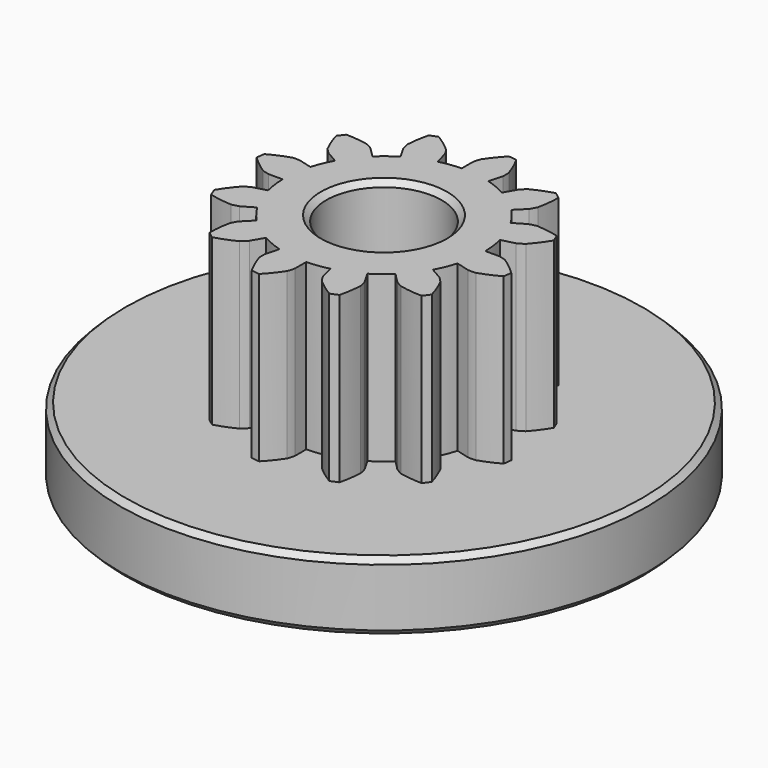
from build123d import *

# Parameters (mm, degrees)
F0_R     = 9.6
F0_R_2   = 2.1
F1_DEPTH = 2.5
F3_DEPTH = 6
F4_R     = 2.1
F5_DEPTH = 6
F6_SIZE  = 0.3
F7_SIZE  = 0.2
F8_SIZE  = 0.2


with BuildPart() as f1:
    # F0 (on Top) → F1 (new body)
    with BuildSketch(Plane.XY):
        Circle(F0_R)
        Circle(F0_R_2, mode=Mode.SUBTRACT)
    extrude(amount=-F1_DEPTH)

    # F2 (on face) → F3 (join)
    with BuildSketch(Plane(origin=(0, 0, -2.5), x_dir=(1, 0, 0), z_dir=(0, 0, -1))):
        with BuildLine():
            Line((-3.889087, -3.889087), (-6.010408, -6.010408))
            ThreePointArc((-6.010408, -6.010408), (-3.252809, -7.852976), (0, -8.5))
            Line((0, -8.5), (0, -5.5))
            ThreePointArc((0, -5.5), (-2.104759, -5.081337), (-3.889087, -3.889087))
        make_face()
    extrude(amount=F3_DEPTH)

    # F4 (on face) → F5 (join)
    with BuildSketch(Plane.XY):
        with BuildLine():
            ThreePointArc((-3.11127, 3.11127), (-3.516618, 3.176372), (-3.926339, 3.202339))
            ThreePointArc((-3.926339, 3.202339), (-4.019657, 3.084391), (-4.109433, 2.963726))
            ThreePointArc((-4.109433, 2.963726), (-3.978308, 2.574687), (-3.810512, 2.2))
            ThreePointArc((-3.810512, 2.2), (-3.717923, 2.097301), (-3.617501, 2.002248))
            Line((-3.617501, 2.002248), (-3.179227, 1.749211))
            ThreePointArc((-3.179227, 1.749211), (-2.878815, 2.208992), (-2.512452, 2.618168))
            Line((-2.512452, 2.618168), (-2.870301, 2.976017))
            ThreePointArc((-2.870301, 2.976017), (-2.988107, 3.048416), (-3.11127, 3.11127))
        make_face()
        with BuildLine():
            ThreePointArc((-1.878686, 3.104474), (-2.208992, 2.878815), (-2.512452, 2.618168))
            ThreePointArc((-2.512452, 2.618168), (-2.878815, 2.208992), (-3.179227, 1.749211))
            ThreePointArc((-3.179227, 1.749211), (-3.352451, 1.388631), (-3.484932, 1.011174))
            ThreePointArc((-3.484932, 1.011174), (-3.597623, 0.473636), (-3.627897, -0.074753))
            ThreePointArc((-3.627897, -0.074753), (-3.597623, -0.473636), (-3.523626, -0.866763))
            ThreePointArc((-3.523626, -0.866763), (-3.352451, -1.388631), (-3.104474, -1.878686))
            ThreePointArc((-3.104474, -1.878686), (-2.878815, -2.208992), (-2.618168, -2.512452))
            ThreePointArc((-2.618168, -2.512452), (-2.208992, -2.878815), (-1.749211, -3.179227))
            ThreePointArc((-1.749211, -3.179227), (-1.388631, -3.352451), (-1.011174, -3.484932))
            ThreePointArc((-1.011174, -3.484932), (-0.473636, -3.597623), (0.074753, -3.627897))
            ThreePointArc((0.074753, -3.627897), (0.473636, -3.597623), (0.866763, -3.523626))
            ThreePointArc((0.866763, -3.523626), (1.388631, -3.352451), (1.878686, -3.104474))
            ThreePointArc((1.878686, -3.104474), (2.208992, -2.878815), (2.512452, -2.618168))
            ThreePointArc((2.512452, -2.618168), (2.878815, -2.208992), (3.179227, -1.749211))
            ThreePointArc((3.179227, -1.749211), (3.352451, -1.388631), (3.484932, -1.011174))
            ThreePointArc((3.484932, -1.011174), (3.592553, -0.510669), (3.628667, 0))
            ThreePointArc((3.628667, 0), (3.628474, 0.037378), (3.627897, 0.074753))
            ThreePointArc((3.627897, 0.074753), (3.597623, 0.473636), (3.523626, 0.866763))
            ThreePointArc((3.523626, 0.866763), (3.352451, 1.388631), (3.104474, 1.878686))
            ThreePointArc((3.104474, 1.878686), (2.878815, 2.208992), (2.618168, 2.512452))
            ThreePointArc((2.618168, 2.512452), (2.208992, 2.878815), (1.749211, 3.179227))
            ThreePointArc((1.749211, 3.179227), (1.388631, 3.352451), (1.011174, 3.484932))
            ThreePointArc((1.011174, 3.484932), (0.473636, 3.597623), (-0.074753, 3.627897))
            ThreePointArc((-0.074753, 3.627897), (-0.473636, 3.597623), (-0.866763, 3.523626))
            ThreePointArc((-0.866763, 3.523626), (-1.388631, 3.352451), (-1.878686, 3.104474))
        make_face()
        Circle(F4_R, mode=Mode.SUBTRACT)
        with BuildLine():
            Line((-2.131723, 3.542748), (-1.878686, 3.104474))
            ThreePointArc((-1.878686, 3.104474), (-1.388631, 3.352451), (-0.866763, 3.523626))
            Line((-0.866763, 3.523626), (-0.997745, 4.012457))
            ThreePointArc((-0.997745, 4.012457), (-1.063568, 4.134059), (-1.138804, 4.250074))
            ThreePointArc((-1.138804, 4.250074), (-1.457294, 4.509128), (-1.79914, 4.736476))
            ThreePointArc((-1.79914, 4.736476), (-1.938929, 4.68099), (-2.07701, 4.621378))
            ThreePointArc((-2.07701, 4.621378), (-2.157972, 4.218898), (-2.2, 3.810512))
            ThreePointArc((-2.2, 3.810512), (-2.171165, 3.675278), (-2.131723, 3.542748))
        make_face()
        with BuildLine():
            ThreePointArc((-3.627897, -0.074753), (-3.597623, 0.473636), (-3.484932, 1.011174))
            Line((-3.484932, 1.011174), (-3.973763, 1.142156))
            ThreePointArc((-3.973763, 1.142156), (-4.111985, 1.145953), (-4.250074, 1.138804))
            ThreePointArc((-4.250074, 1.138804), (-4.633667, 0.99251), (-5.001479, 0.810137))
            ThreePointArc((-5.001479, 0.810137), (-5.023321, 0.661333), (-5.040736, 0.511946))
            ThreePointArc((-5.040736, 0.511946), (-4.732659, 0.24059), (-4.4, 0))
            ThreePointArc((-4.4, 0), (-4.268466, -0.042645), (-4.133972, -0.074753))
            Line((-4.133972, -0.074753), (-3.627897, -0.074753))
        make_face()
        with BuildLine():
            Line((-0.074753, 4.133972), (-0.074753, 3.627897))
            ThreePointArc((-0.074753, 3.627897), (0.473636, 3.597623), (1.011174, 3.484932))
            Line((1.011174, 3.484932), (1.142156, 3.973763))
            ThreePointArc((1.142156, 3.973763), (1.145953, 4.111985), (1.138804, 4.250074))
            ThreePointArc((1.138804, 4.250074), (0.99251, 4.633667), (0.810137, 5.001479))
            ThreePointArc((0.810137, 5.001479), (0.661333, 5.023321), (0.511946, 5.040736))
            ThreePointArc((0.511946, 5.040736), (0.24059, 4.732659), (0, 4.4))
            ThreePointArc((0, 4.4), (-0.042645, 4.268466), (-0.074753, 4.133972))
        make_face()
        with BuildLine():
            ThreePointArc((-3.104474, -1.878686), (-3.352451, -1.388631), (-3.523626, -0.866763))
            Line((-3.523626, -0.866763), (-4.012457, -0.997745))
            ThreePointArc((-4.012457, -0.997745), (-4.134059, -1.063568), (-4.250074, -1.138804))
            ThreePointArc((-4.250074, -1.138804), (-4.509128, -1.457294), (-4.736476, -1.79914))
            ThreePointArc((-4.736476, -1.79914), (-4.68099, -1.938929), (-4.621378, -2.07701))
            ThreePointArc((-4.621378, -2.07701), (-4.218898, -2.157972), (-3.810512, -2.2))
            ThreePointArc((-3.810512, -2.2), (-3.675278, -2.171165), (-3.542748, -2.131723))
            Line((-3.542748, -2.131723), (-3.104474, -1.878686))
        make_face()
        with BuildLine():
            Line((2.002248, 3.617501), (1.749211, 3.179227))
            ThreePointArc((1.749211, 3.179227), (2.208992, 2.878815), (2.618168, 2.512452))
            Line((2.618168, 2.512452), (2.976017, 2.870301))
            ThreePointArc((2.976017, 2.870301), (3.048416, 2.988107), (3.11127, 3.11127))
            ThreePointArc((3.11127, 3.11127), (3.176372, 3.516618), (3.202339, 3.926339))
            ThreePointArc((3.202339, 3.926339), (3.084391, 4.019657), (2.963726, 4.109433))
            ThreePointArc((2.963726, 4.109433), (2.574687, 3.978308), (2.2, 3.810512))
            ThreePointArc((2.2, 3.810512), (2.097301, 3.717923), (2.002248, 3.617501))
        make_face()
        with BuildLine():
            ThreePointArc((-1.749211, -3.179227), (-2.208992, -2.878815), (-2.618168, -2.512452))
            Line((-2.618168, -2.512452), (-2.976017, -2.870301))
            ThreePointArc((-2.976017, -2.870301), (-3.048416, -2.988107), (-3.11127, -3.11127))
            ThreePointArc((-3.11127, -3.11127), (-3.176372, -3.516618), (-3.202339, -3.926339))
            ThreePointArc((-3.202339, -3.926339), (-3.084391, -4.019657), (-2.963726, -4.109433))
            ThreePointArc((-2.963726, -4.109433), (-2.574687, -3.978308), (-2.2, -3.810512))
            ThreePointArc((-2.2, -3.810512), (-2.097301, -3.717923), (-2.002248, -3.617501))
            Line((-2.002248, -3.617501), (-1.749211, -3.179227))
        make_face()
        with BuildLine():
            Line((3.542748, 2.131723), (3.104474, 1.878686))
            ThreePointArc((3.104474, 1.878686), (3.352451, 1.388631), (3.523626, 0.866763))
            Line((3.523626, 0.866763), (4.012457, 0.997745))
            ThreePointArc((4.012457, 0.997745), (4.134059, 1.063568), (4.250074, 1.138804))
            ThreePointArc((4.250074, 1.138804), (4.509128, 1.457294), (4.736476, 1.79914))
            ThreePointArc((4.736476, 1.79914), (4.68099, 1.938929), (4.621378, 2.07701))
            ThreePointArc((4.621378, 2.07701), (4.218898, 2.157972), (3.810512, 2.2))
            ThreePointArc((3.810512, 2.2), (3.675278, 2.171165), (3.542748, 2.131723))
        make_face()
        with BuildLine():
            ThreePointArc((0.074753, -3.627897), (-0.473636, -3.597623), (-1.011174, -3.484932))
            Line((-1.011174, -3.484932), (-1.142156, -3.973763))
            ThreePointArc((-1.142156, -3.973763), (-1.145953, -4.111985), (-1.138804, -4.250074))
            ThreePointArc((-1.138804, -4.250074), (-0.99251, -4.633667), (-0.810137, -5.001479))
            ThreePointArc((-0.810137, -5.001479), (-0.661333, -5.023321), (-0.511946, -5.040736))
            ThreePointArc((-0.511946, -5.040736), (-0.24059, -4.732659), (0, -4.4))
            ThreePointArc((0, -4.4), (0.042645, -4.268466), (0.074753, -4.133972))
            Line((0.074753, -4.133972), (0.074753, -3.627897))
        make_face()
        with BuildLine():
            Line((4.133972, 0.074753), (3.627897, 0.074753))
            ThreePointArc((3.627897, 0.074753), (3.628474, 0.037378), (3.628667, 0))
            ThreePointArc((3.628667, 0), (3.592553, -0.510669), (3.484932, -1.011174))
            Line((3.484932, -1.011174), (3.973763, -1.142156))
            ThreePointArc((3.973763, -1.142156), (4.111985, -1.145953), (4.250074, -1.138804))
            ThreePointArc((4.250074, -1.138804), (4.633667, -0.99251), (5.001479, -0.810137))
            ThreePointArc((5.001479, -0.810137), (5.023321, -0.661333), (5.040736, -0.511946))
            ThreePointArc((5.040736, -0.511946), (4.732659, -0.24059), (4.4, 0))
            ThreePointArc((4.4, 0), (4.268466, 0.042645), (4.133972, 0.074753))
        make_face()
        with BuildLine():
            ThreePointArc((1.878686, -3.104474), (1.388631, -3.352451), (0.866763, -3.523626))
            Line((0.866763, -3.523626), (0.997745, -4.012457))
            ThreePointArc((0.997745, -4.012457), (1.063568, -4.134059), (1.138804, -4.250074))
            ThreePointArc((1.138804, -4.250074), (1.457294, -4.509128), (1.79914, -4.736476))
            ThreePointArc((1.79914, -4.736476), (1.938929, -4.68099), (2.07701, -4.621378))
            ThreePointArc((2.07701, -4.621378), (2.157972, -4.218898), (2.2, -3.810512))
            ThreePointArc((2.2, -3.810512), (2.171165, -3.675278), (2.131723, -3.542748))
            Line((2.131723, -3.542748), (1.878686, -3.104474))
        make_face()
        with BuildLine():
            ThreePointArc((3.179227, -1.749211), (2.878815, -2.208992), (2.512452, -2.618168))
            Line((2.512452, -2.618168), (2.870301, -2.976017))
            ThreePointArc((2.870301, -2.976017), (2.988107, -3.048416), (3.11127, -3.11127))
            ThreePointArc((3.11127, -3.11127), (3.516618, -3.176372), (3.926339, -3.202339))
            ThreePointArc((3.926339, -3.202339), (4.019657, -3.084391), (4.109433, -2.963726))
            ThreePointArc((4.109433, -2.963726), (3.978308, -2.574687), (3.810512, -2.2))
            ThreePointArc((3.810512, -2.2), (3.717923, -2.097301), (3.617501, -2.002248))
            Line((3.617501, -2.002248), (3.179227, -1.749211))
        make_face()
    extrude(amount=F5_DEPTH)

    # F6
    f6_edges = [f1.edges().sort_by_distance(p)[0] for p in [
        (-2.1, 0, -2.5),
    ]]
    chamfer(f6_edges, length=F6_SIZE)

    # F7
    f7_edges = [f1.edges().sort_by_distance(p)[0] for p in [
        (-2.1, 0, 6),
    ]]
    chamfer(f7_edges, length=F7_SIZE)

    # F8
    f8_edges = [f1.edges().sort_by_distance(p)[0] for p in [
        (-9.6, 0, -2.5),
        (-9.6, 0, 0),
    ]]
    chamfer(f8_edges, length=F8_SIZE)


solid = f1.part
